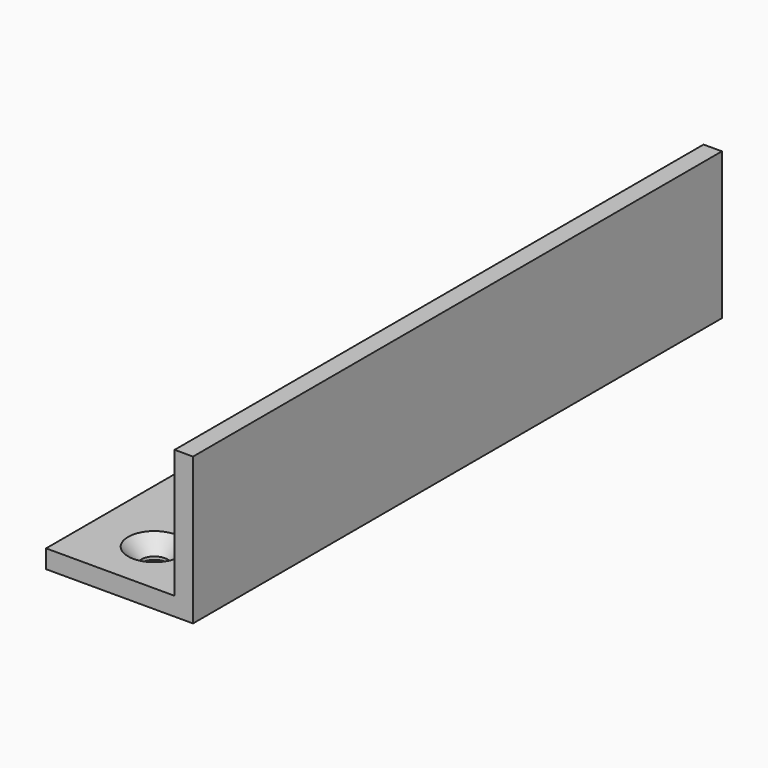
from build123d import *

# Parameters (mm, degrees)
F0_W           = 3.175
F0_H           = 22.225
F0_H_2         = 3.175
F0_W_2         = 22.225
F1_DEPTH       = 114.3
F3_D           = 4.4958
F3_CSINK_D     = 9.1186
F3_CSINK_ANGLE = 82


with BuildPart() as f1:
    # F0 (on Front) → F1 (new body)
    with BuildSketch(Plane.XZ):
        with Locations((85.725, 14.2875)):
            Rectangle(F0_W, F0_H)
        with Locations((85.725, 1.5875)):
            Rectangle(F0_W, F0_H_2)
        with Locations((73.025, 1.5875)):
            Rectangle(F0_W_2, F0_H_2)
    extrude(amount=F1_DEPTH)

    # F3 (through all)
    with Locations(Plane.XY.offset(3.175)):
        with Locations((73.025, -104.775), (73.025, -9.525)):
            CounterSinkHole(F3_D / 2, F3_CSINK_D / 2, counter_sink_angle=F3_CSINK_ANGLE)


solid = f1.part
